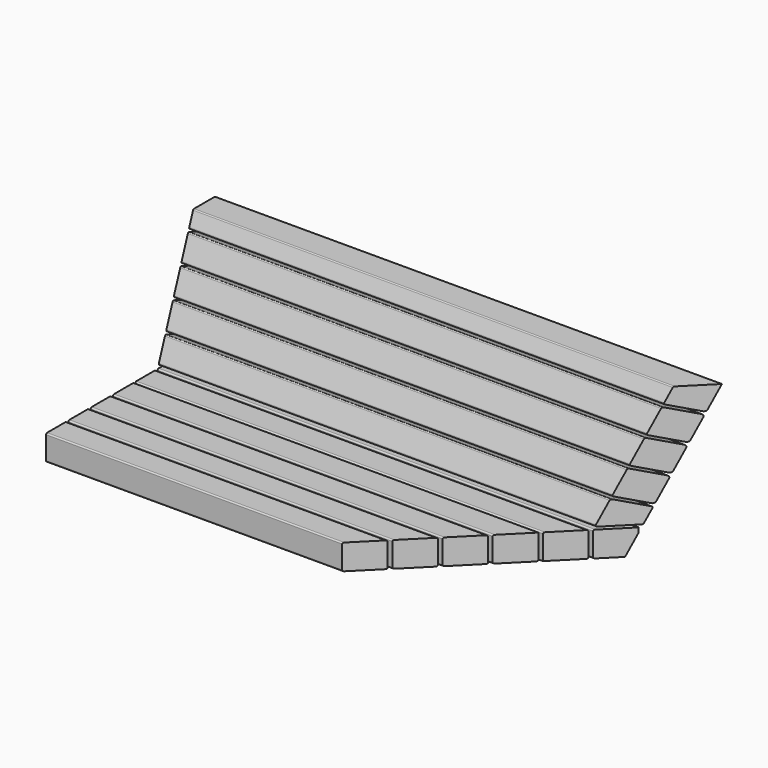
from build123d import *

# Parameters (mm, degrees)
F1_DEPTH = 2000
F3_DEPTH = 583.2330008918


with BuildPart() as f1:
    # F0 (on Right) → F1 (new body)
    with BuildSketch(Plane.YZ):
        with BuildLine():
            Line((0, -16.7510631673), (0, 0))
            Line((0, 0), (-95, 0))
            ThreePointArc((-95, 0), (-98.5355339059, -1.4644660941), (-100, -5))
            Line((-100, -5), (-100, -95))
            ThreePointArc((-100, -95), (-98.5355339059, -98.5355339059), (-95, -100))
            Line((-95, -100), (-33.4802838701, -100))
            Line((-33.4802838701, -100), (-29.979246179, -100))
            Line((-29.979246179, -100), (-29.3805334726, -98.3550503583))
            Line((-29.3805334726, -98.3550503583), (-28.7818207661, -96.7101007166))
            Line((-28.7818207661, -96.7101007166), (-0.3015368961, -18.4611638839))
            ThreePointArc((-0.3015368961, -18.4611638839), (-0.0759612349, -17.6193040556), (0, -16.7510631673))
        make_face()
    extrude(amount=F1_DEPTH)


with BuildPart() as f1b:
    # F0 (on Right) → F1, piece 2 (new body)
    with BuildSketch(Plane.YZ):
        with BuildLine():
            ThreePointArc((-110, -5), (-111.4644660941, -1.4644660941), (-115, 0))
            Line((-115, 0), (-205, 0))
            ThreePointArc((-205, 0), (-208.5355339059, -1.4644660941), (-210, -5))
            Line((-210, -5), (-210, -100))
            Line((-210, -100), (-115, -100))
            ThreePointArc((-115, -100), (-111.4644660941, -98.5355339059), (-110, -95))
            Line((-110, -95), (-110, -5))
        make_face()
    extrude(amount=F1_DEPTH)


with BuildPart() as f1c:
    # F0 (on Right) → F1, piece 3 (new body)
    with BuildSketch(Plane.YZ):
        with BuildLine():
            Line((-220, -95), (-220, 0))
            Line((-220, 0), (-315, 0))
            ThreePointArc((-315, 0), (-318.5355339059, -1.4644660941), (-320, -5))
            Line((-320, -5), (-320, -95))
            ThreePointArc((-320, -95), (-318.5355339059, -98.5355339059), (-315, -100))
            Line((-315, -100), (-225, -100))
            ThreePointArc((-225, -100), (-221.4644660941, -98.5355339059), (-220, -95))
        make_face()
    extrude(amount=F1_DEPTH)


with BuildPart() as f1d:
    # F0 (on Right) → F1, piece 4 (new body)
    with BuildSketch(Plane.YZ):
        with BuildLine():
            ThreePointArc((-330, -5), (-331.4644660941, -1.4644660941), (-335, 0))
            Line((-335, 0), (-425, 0))
            ThreePointArc((-425, 0), (-428.5355339059, -1.4644660941), (-430, -5))
            Line((-430, -5), (-430, -95))
            ThreePointArc((-430, -95), (-428.5355339059, -98.5355339059), (-425, -100))
            Line((-425, -100), (-335, -100))
            ThreePointArc((-335, -100), (-331.4644660941, -98.5355339059), (-330, -95))
            Line((-330, -95), (-330, -5))
        make_face()
    extrude(amount=F1_DEPTH)


with BuildPart() as f1e:
    # F0 (on Right) → F1, piece 5 (new body)
    with BuildSketch(Plane.YZ):
        with BuildLine():
            ThreePointArc((-440, -5), (-441.4644660941, -1.4644660941), (-445, 0))
            Line((-445, 0), (-535, 0))
            ThreePointArc((-535, 0), (-538.5355339059, -1.4644660941), (-540, -5))
            Line((-540, -5), (-540, -95))
            ThreePointArc((-540, -95), (-538.5355339059, -98.5355339059), (-535, -100))
            Line((-535, -100), (-445, -100))
            ThreePointArc((-445, -100), (-441.4644660941, -98.5355339059), (-440, -95))
            Line((-440, -95), (-440, -5))
        make_face()
    extrude(amount=F1_DEPTH)


with BuildPart() as f1f:
    # F0 (on Right) → F1, piece 6 (new body)
    with BuildSketch(Plane.YZ):
        with BuildLine():
            ThreePointArc((-550, -5), (-551.4644660941, -1.4644660941), (-555, 0))
            Line((-555, 0), (-645, 0))
            ThreePointArc((-645, 0), (-648.5355339059, -1.4644660941), (-650, -5))
            Line((-650, -5), (-650, -95))
            ThreePointArc((-650, -95), (-648.5355339059, -98.5355339059), (-645, -100))
            Line((-645, -100), (-555, -100))
            ThreePointArc((-555, -100), (-551.4644660941, -98.5355339059), (-550, -95))
            Line((-550, -95), (-550, -5))
        make_face()
    extrude(amount=F1_DEPTH)


with BuildPart() as f1g:
    # F0 (on Right) → F1, piece 7 (new body)
    with BuildSketch(Plane.YZ):
        with BuildLine():
            Line((-63.8683840414, 99.2707989747), (-93.9180207276, 16.7101007166))
            ThreePointArc((-93.9180207276, 16.7101007166), (-93.3153178451, 12.1321178182), (-89.2195576236, 10))
            Line((-89.2195576236, 10), (6.5564418992, 10))
            ThreePointArc((6.5564418992, 10), (9.424324081, 10.9042397786), (11.2549050031, 13.2898992834))
            Line((11.2549050031, 13.2898992834), (30.1008780372, 65.0687846421))
            ThreePointArc((30.1008780372, 65.0687846421), (29.9339538684, 68.8919766674), (27.1125156499, 71.4773484627))
            Line((27.1125156499, 71.4773484627), (-57.4598202208, 102.259161362))
            ThreePointArc((-57.4598202208, 102.259161362), (-61.2830122462, 102.0922371932), (-63.8683840414, 99.2707989747))
        make_face()
    extrude(amount=F1_DEPTH)


with BuildPart() as f1h:
    # F0 (on Right) → F1, piece 8 (new body)
    with BuildSketch(Plane.YZ):
        with BuildLine():
            ThreePointArc((-57.0279811749, 118.0646513904), (-56.8610570061, 114.241459365), (-54.0396187876, 111.6560875698))
            Line((-54.0396187876, 111.6560875698), (27.6920079995, 81.9082082212))
            ThreePointArc((27.6920079995, 81.9082082212), (33.8267168069, 82.1760553922), (37.9752144544, 86.7033461415))
            Line((37.9752144544, 86.7033461415), (66.6891602523, 165.5942638449))
            ThreePointArc((66.6891602523, 165.5942638449), (66.4213130813, 171.7289726523), (61.894022332, 175.8774702998))
            Line((61.894022332, 175.8774702998), (-19.837604455, 205.6253496484))
            ThreePointArc((-19.837604455, 205.6253496484), (-23.6607964803, 205.4584254797), (-26.2461682756, 202.6369872611))
            Line((-26.2461682756, 202.6369872611), (-57.0279811749, 118.0646513904))
        make_face()
    extrude(amount=F1_DEPTH)


with BuildPart() as f1i:
    # F0 (on Right) → F1, piece 9 (new body)
    with BuildSketch(Plane.YZ):
        with BuildLine():
            Line((11.3760474902, 306.0031755476), (-19.4057654091, 221.4308396768))
            ThreePointArc((-19.4057654091, 221.4308396768), (-19.2388412403, 217.6076476515), (-16.4174030218, 215.0222758563))
            Line((-16.4174030218, 215.0222758563), (65.3142237653, 185.2743965076))
            ThreePointArc((65.3142237653, 185.2743965076), (71.4489325728, 185.5422436786), (75.5974302202, 190.0695344279))
            Line((75.5974302202, 190.0695344279), (104.3113760182, 268.9604521313))
            ThreePointArc((104.3113760182, 268.9604521313), (104.0435288472, 275.0951609388), (99.5162380979, 279.2436585862))
            Line((99.5162380979, 279.2436585862), (17.7846113108, 308.9915379349))
            ThreePointArc((17.7846113108, 308.9915379349), (13.9614192855, 308.8246137661), (11.3760474902, 306.0031755476))
        make_face()
    extrude(amount=F1_DEPTH)


with BuildPart() as f1j:
    # F0 (on Right) → F1, piece 10 (new body)
    with BuildSketch(Plane.YZ):
        with BuildLine():
            Line((150.8418617518, 396.8019110008), (182.2998418171, 483.2320008918))
            Line((182.2998418171, 483.2320008918), (79.3831022606, 483.2320008918))
            ThreePointArc((79.3831022606, 483.2320008918), (76.5152200788, 482.3277611133), (74.6846391566, 479.9421016085))
            Line((74.6846391566, 479.9421016085), (55.8386661226, 428.1632162497))
            ThreePointArc((55.8386661226, 428.1632162497), (56.0055902913, 424.3400242244), (58.8270285099, 421.7546524292))
            Line((58.8270285099, 421.7546524292), (140.5586552969, 392.0067730805))
            ThreePointArc((140.5586552969, 392.0067730805), (146.6933641044, 392.2746202515), (150.8418617518, 396.8019110008))
        make_face()
    extrude(amount=F1_DEPTH)


with BuildPart() as f1k:
    # F0 (on Right) → F1, piece 11 (new body)
    with BuildSketch(Plane.YZ):
        with BuildLine():
            ThreePointArc((18.2164503568, 324.7970279633), (18.3833745255, 320.9738359379), (21.2048127441, 318.3884641427))
            Line((21.2048127441, 318.3884641427), (102.9364395311, 288.6405847941))
            ThreePointArc((102.9364395311, 288.6405847941), (109.0711483386, 288.9084319651), (113.219645986, 293.4357227144))
            Line((113.219645986, 293.4357227144), (141.933591784, 372.3266404178))
            ThreePointArc((141.933591784, 372.3266404178), (141.665744613, 378.4613492252), (137.1384538637, 382.6098468727))
            Line((137.1384538637, 382.6098468727), (55.4068270766, 412.3577262213))
            ThreePointArc((55.4068270766, 412.3577262213), (51.5836350513, 412.1908020526), (48.9982632561, 409.369363834))
            Line((48.9982632561, 409.369363834), (18.2164503568, 324.7970279633))
        make_face()
    extrude(amount=F1_DEPTH)


with BuildPart() as f3_tool:
    # F2 (on face) → F3 (new body, through all)
    with BuildSketch(Plane.XY.offset(483.2320008918)):
        Polygon((2000, 79.3831022606), (2000, 182.2998418171), (1897.0832604435, 79.3831022606), align=None)
        Polygon((2000, -650.1975481829), (2000, 79.3831022606), (1897.0832604435, 79.3831022606), (1167.50261, -650.1975481829), align=None)
    extrude(amount=-F3_DEPTH)


with BuildPart() as f1_1:
    add(f1.part)

    # F3: cut by f3_tool
    add(f3_tool.part, mode=Mode.SUBTRACT)


with BuildPart() as f1b_1:
    add(f1b.part)

    # F3: cut by f3_tool
    add(f3_tool.part, mode=Mode.SUBTRACT)


with BuildPart() as f1c_1:
    add(f1c.part)

    # F3: cut by f3_tool
    add(f3_tool.part, mode=Mode.SUBTRACT)


with BuildPart() as f1d_1:
    add(f1d.part)

    # F3: cut by f3_tool
    add(f3_tool.part, mode=Mode.SUBTRACT)


with BuildPart() as f1e_1:
    add(f1e.part)

    # F3: cut by f3_tool
    add(f3_tool.part, mode=Mode.SUBTRACT)


with BuildPart() as f1f_1:
    add(f1f.part)

    # F3: cut by f3_tool
    add(f3_tool.part, mode=Mode.SUBTRACT)


with BuildPart() as f1g_1:
    add(f1g.part)

    # F3: cut by f3_tool
    add(f3_tool.part, mode=Mode.SUBTRACT)


with BuildPart() as f1h_1:
    add(f1h.part)

    # F3: cut by f3_tool
    add(f3_tool.part, mode=Mode.SUBTRACT)


with BuildPart() as f1i_1:
    add(f1i.part)

    # F3: cut by f3_tool
    add(f3_tool.part, mode=Mode.SUBTRACT)


with BuildPart() as f1j_1:
    add(f1j.part)

    # F3: cut by f3_tool
    add(f3_tool.part, mode=Mode.SUBTRACT)


with BuildPart() as f1k_1:
    add(f1k.part)

    # F3: cut by f3_tool
    add(f3_tool.part, mode=Mode.SUBTRACT)


solid = Compound([f1_1.part, f1b_1.part, f1c_1.part, f1d_1.part, f1e_1.part, f1f_1.part, f1g_1.part, f1h_1.part, f1i_1.part, f1j_1.part, f1k_1.part])
